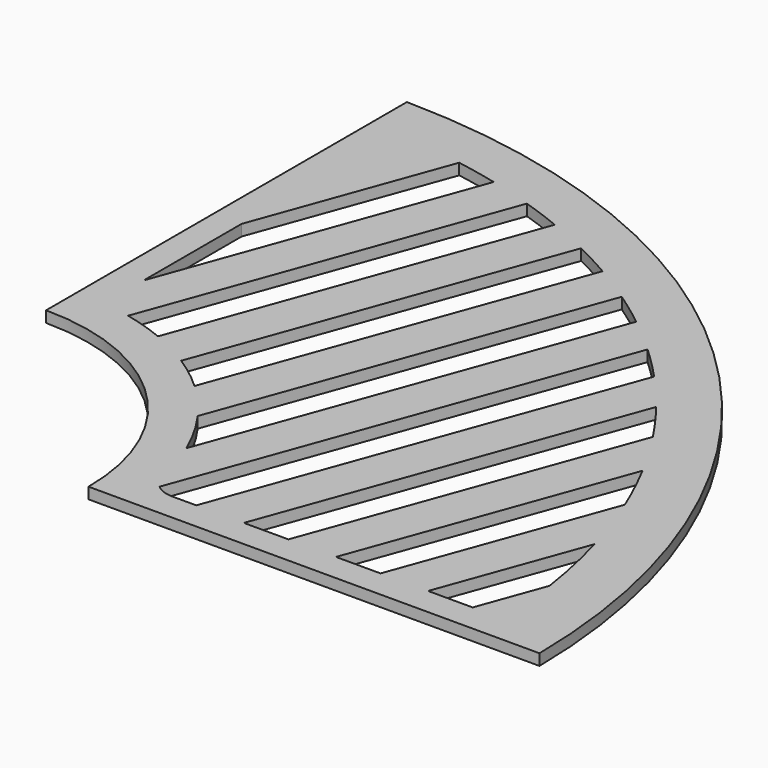
from build123d import *

# Parameters (mm, degrees)
F1_DEPTH = 2.54


with BuildPart() as f1:
    # F0 (on Top) → F1 (new body)
    with BuildSketch(Plane.XY):
        with BuildLine():
            ThreePointArc((0, 48.26), (34.124973, 34.124973), (48.26, 0))
            Line((48.26, 0), (150.8125, 0))
            ThreePointArc((150.8125, 0), (106.183757, 106.183757), (0, 150.8125))
            Line((0, 150.8125), (0, 48.26))
        make_face()
        with BuildLine():
            Line((84.570435, 110.294206), (52.578475, 22.397019))
            ThreePointArc((52.578475, 22.397019), (49.801558, 28.034396), (46.422481, 33.332803))
            Line((46.422481, 33.332803), (76.575683, 116.178043))
            ThreePointArc((76.575683, 116.178043), (80.625335, 113.307156), (84.570435, 110.294206))
        make_face(mode=Mode.SUBTRACT)
        with BuildLine():
            ThreePointArc((132.230787, 38.868826), (134.394344, 30.177768), (135.996548, 21.365934))
            Line((135.996548, 21.365934), (130.531195, 6.35))
            Line((130.531195, 6.35), (120.394902, 6.35))
            Line((120.394902, 6.35), (132.230787, 38.868826))
        make_face(mode=Mode.SUBTRACT)
        with BuildLine():
            Line((109.582856, 6.35), (99.446562, 6.35))
            Line((99.446562, 6.35), (121.243245, 66.235894))
            ThreePointArc((121.243245, 66.235894), (124.245901, 60.228273), (126.956349, 54.08328))
            Line((126.956349, 54.08328), (109.582856, 6.35))
        make_face(mode=Mode.SUBTRACT)
        with BuildLine():
            Line((67.686177, 6.35), (62.217039, 6.35))
            ThreePointArc((62.217039, 6.35), (60.02418, 6.740649), (58.101127, 7.86453))
            Line((58.101127, 7.86453), (92.810586, 103.227983))
            ThreePointArc((92.810586, 103.227983), (96.596339, 99.582496), (100.242292, 95.797191))
            Line((100.242292, 95.797191), (67.686177, 6.35))
        make_face(mode=Mode.SUBTRACT)
        with BuildLine():
            Line((88.634516, 6.35), (78.498223, 6.35))
            Line((78.498223, 6.35), (107.819725, 86.910164))
            ThreePointArc((107.819725, 86.910164), (111.280177, 82.296897), (114.547284, 77.544743))
            Line((114.547284, 77.544743), (88.634516, 6.35))
        make_face(mode=Mode.SUBTRACT)
        with BuildLine():
            ThreePointArc((21.763532, 52.843838), (17.280179, 54.474929), (12.676404, 55.726397))
            Line((12.676404, 55.726397), (41.035108, 133.641295))
            ThreePointArc((41.035108, 133.641295), (45.538887, 132.090819), (49.987192, 130.387707))
            Line((49.987192, 130.387707), (21.763532, 52.843838))
        make_face(mode=Mode.SUBTRACT)
        with BuildLine():
            Line((31.240608, 136.43698), (6.35, 68.050598))
            Line((6.35, 68.050598), (6.35, 95.899834))
            Line((6.35, 95.899834), (21.824525, 138.415741))
            ThreePointArc((21.824525, 138.415741), (26.549607, 137.50745), (31.240608, 136.43698))
        make_face(mode=Mode.SUBTRACT)
        with BuildLine():
            ThreePointArc((38.763073, 41.994603), (34.94125, 45.224236), (30.851582, 48.107197))
            Line((30.851582, 48.107197), (59.290495, 126.242471))
            ThreePointArc((59.290495, 126.242471), (63.573575, 124.05148), (67.778673, 121.714311))
            Line((67.778673, 121.714311), (38.763073, 41.994603))
        make_face(mode=Mode.SUBTRACT)
    extrude(amount=F1_DEPTH)


solid = f1.part
